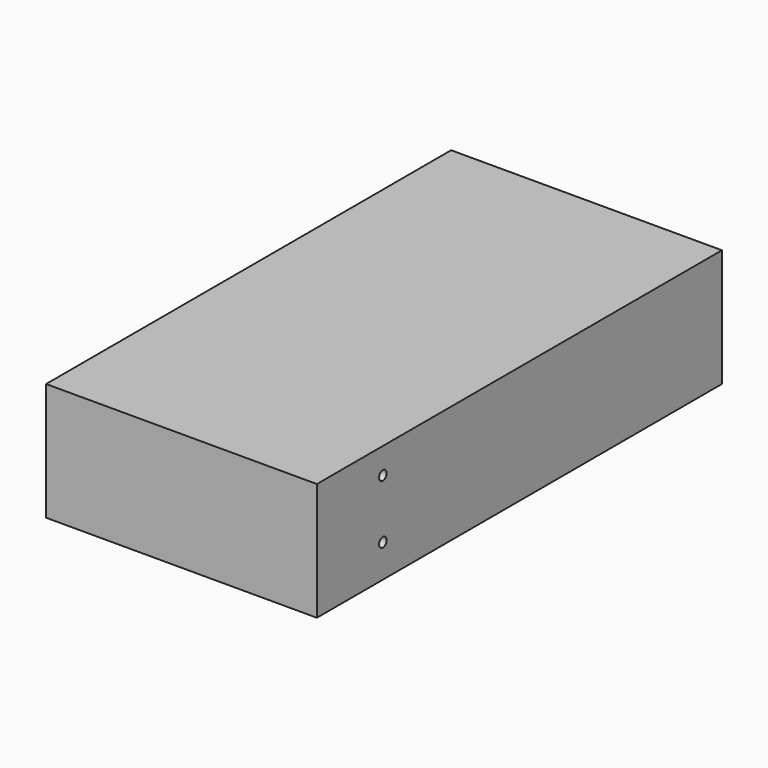
from build123d import *

# Parameters (mm, degrees)
F0_W     = 115
F0_H     = 215
F1_DEPTH = 50
F2_R     = 2
F3_DEPTH = 5


with BuildPart() as f1:
    # F0 (on Top) → F1 (new body)
    with BuildSketch(Plane.XY):
        Rectangle(F0_W, F0_H)
    extrude(amount=F1_DEPTH)

    # F2 (on face) → F3 (cut)
    with BuildSketch(Plane.YZ.offset(57.5)):
        with Locations((-72.5, 39)):
            Circle(F2_R)
        with Locations((-72.5, 14)):
            Circle(F2_R)
    extrude(amount=-F3_DEPTH, mode=Mode.SUBTRACT)


solid = f1.part
